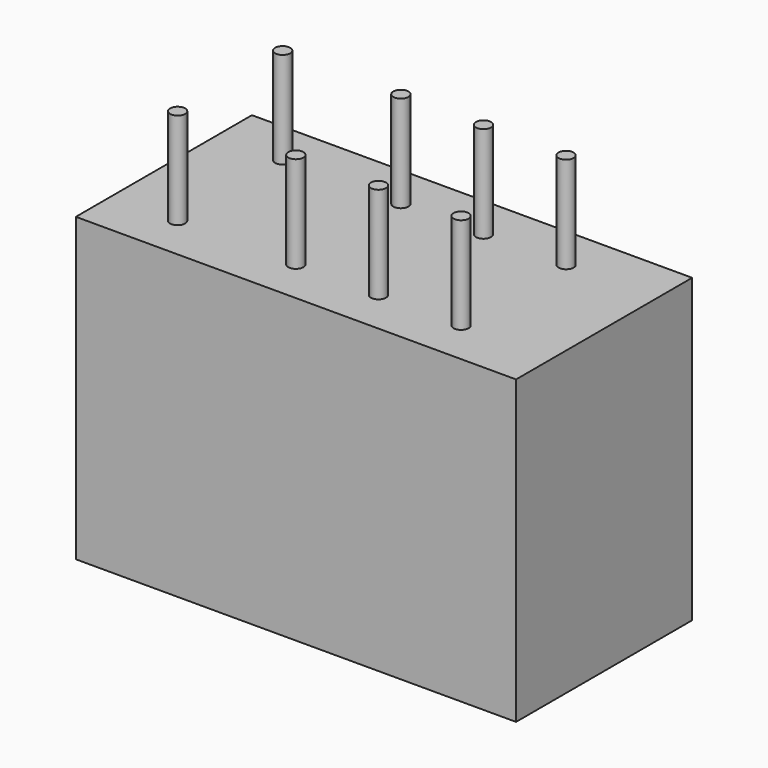
from build123d import *

# Parameters (mm, degrees)
F0_W     = 14.6
F0_H     = 7.3
F1_DEPTH = 10
F2_R     = 0.25
F3_DEPTH = 3.2


with BuildPart() as f1:
    # F0 (on Top) → F1 (new body)
    with BuildSketch(Plane.XY):
        with Locations((7.3, 3.65)):
            Rectangle(F0_W, F0_H)
    extrude(amount=F1_DEPTH)

    # F2 (on face) → F3 (join)
    with BuildSketch(Plane.XY.offset(10)):
        with Locations((2.196679, 5.826643)):
            Circle(F2_R)
        with Locations((2.196679, 1.473357)):
            Circle(F2_R)
        with Locations((6.117353, 1.473357)):
            Circle(F2_R)
        with Locations((6.117353, 5.826643)):
            Circle(F2_R)
        with Locations((8.857069, 5.826643)):
            Circle(F2_R)
        with Locations((11.597946, 5.826643)):
            Circle(F2_R)
        with Locations((11.597946, 1.473357)):
            Circle(F2_R)
        with Locations((8.857069, 1.473357)):
            Circle(F2_R)
    extrude(amount=F3_DEPTH)


solid = f1.part
